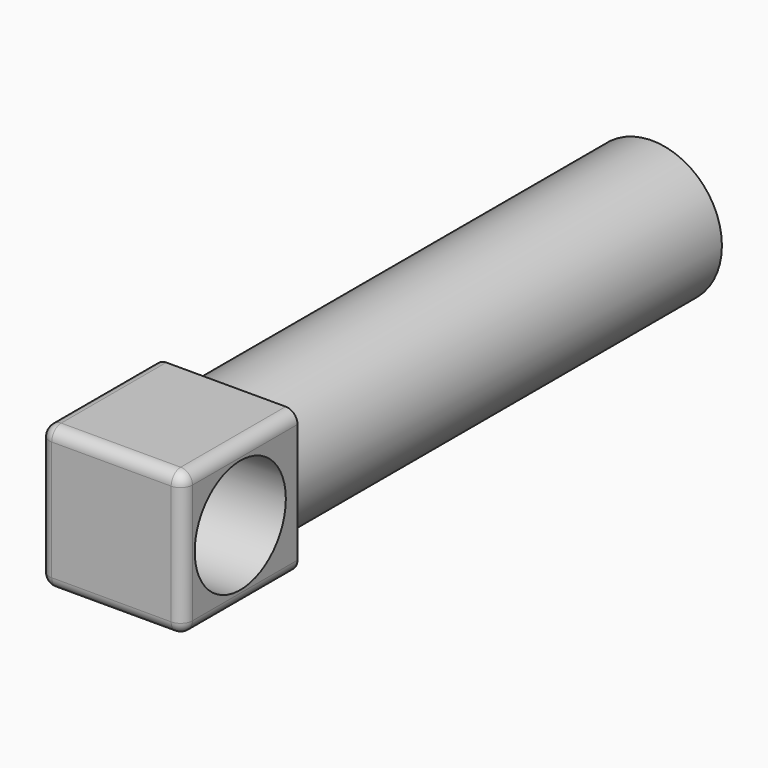
from build123d import *

# Parameters (mm, degrees)
F0_R     = 29.972
F1_DEPTH = 228.6
F2_W     = 61.4172
F2_H     = 61.4225
F3_DEPTH = 61.4172
F5_D     = 48.895
F6_R     = 5.08


with BuildPart() as f1:
    # F0 (on Front) → F1 (new body)
    with BuildSketch(Plane.XZ):
        Circle(F0_R)
    extrude(amount=-F1_DEPTH)

    # F2 (on Front) → F3 (join)
    with BuildSketch(Plane.XZ):
        Rectangle(F2_W, F2_H)
    extrude(amount=F3_DEPTH)

    # F5 (through all)
    with Locations(Plane(origin=(-30.7086, 0, 0), x_dir=(0, -1, 0), z_dir=(-1, 0, 0))):
        with Locations((30.7086, 0)):
            Hole(F5_D / 2)

    # F6
    f6_edges = [f1.edges().sort_by_distance(p)[0] for p in [
        (-30.7086, -30.7086, 30.71125),
        (0, -61.4172, 30.71125),
        (-30.7086, -61.4172, 0),
        (30.7086, -30.7086, 30.71125),
        (30.7086, -61.4172, 0),
        (30.7086, -30.7086, -30.71125),
        (0, -61.4172, -30.71125),
        (-30.7086, -30.7086, -30.71125),
    ]]
    fillet(f6_edges, radius=F6_R)


solid = f1.part
